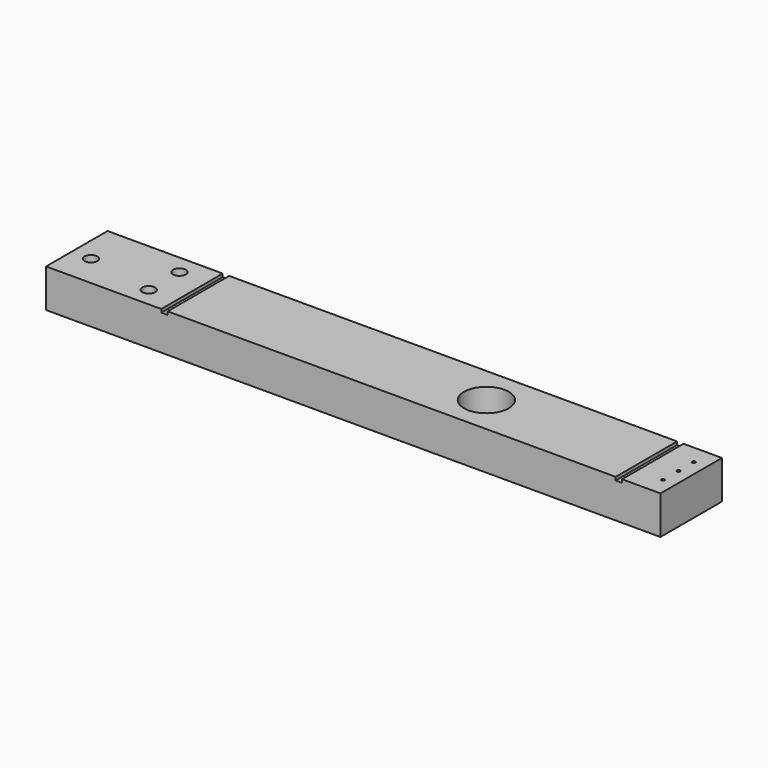
from build123d import *

# Parameters (mm, degrees)
F0_W      = 304.8
F0_H      = 38.1
F1_DEPTH  = 19.05
F2_R      = 11.1125
F3_DEPTH  = 12.7
F4_R      = 3.175
F5_DEPTH  = 19.051
F6_R      = 3.175
F7_DEPTH  = 19.051
F8_R      = 0.79375
F9_DEPTH  = 19.051
F10_W     = 3.175
F10_H     = 1.5875
F11_DEPTH = 38.101
F12_R     = 2.286
F13_DEPTH = 6.35


with BuildPart() as f1:
    # F0 (on Top) → F1 (new body)
    with BuildSketch(Plane.XY):
        with Locations((84.480461, 0)):
            Rectangle(F0_W, F0_H)
    extrude(amount=F1_DEPTH)

    # F2 (on face) → F3 (cut)
    with BuildSketch(Plane.XY.offset(19.05)):
        with Locations((135.280461, 0)):
            Circle(F2_R)
    extrude(amount=-F3_DEPTH, mode=Mode.SUBTRACT)

    # F4 (on face) → F5 (cut, through all)
    with BuildSketch(Plane.XY.offset(19.05)):
        with Locations((-58.394539, -3.175)):
            Circle(F4_R)
    extrude(amount=-F5_DEPTH, mode=Mode.SUBTRACT)

    # F6 (on face) → F7 (cut, through all)
    with BuildSketch(Plane.XY.offset(19.05)):
        with Locations((-24.612539, -9.525)):
            Circle(F6_R)
        with Locations((-24.612539, 9.525)):
            Circle(F6_R)
    extrude(amount=-F7_DEPTH, mode=Mode.SUBTRACT)

    # F8 (on face) → F9 (cut, through all)
    with BuildSketch(Plane.XY.offset(19.05)):
        with Locations((230.530461, 9.525)):
            Circle(F8_R)
        with Locations((230.530461, 0)):
            Circle(F8_R)
        with Locations((230.530461, -9.525)):
            Circle(F8_R)
    extrude(amount=-F9_DEPTH, mode=Mode.SUBTRACT)

    # F10 (on face) → F11 (cut, through all)
    with BuildSketch(Plane.XZ.offset(19.05)):
        with Locations((-9.182039, 18.25625)):
            Rectangle(F10_W, F10_H)
        with Locations((216.242961, 18.25625)):
            Rectangle(F10_W, F10_H)
    extrude(amount=-F11_DEPTH, mode=Mode.SUBTRACT)

    # F12 (on face) → F13 (cut, through all)
    with BuildSketch(Plane.XY.offset(6.35)):
        with Locations((135.280461, 0)):
            Circle(F12_R)
    extrude(amount=-F13_DEPTH, mode=Mode.SUBTRACT)


solid = f1.part
